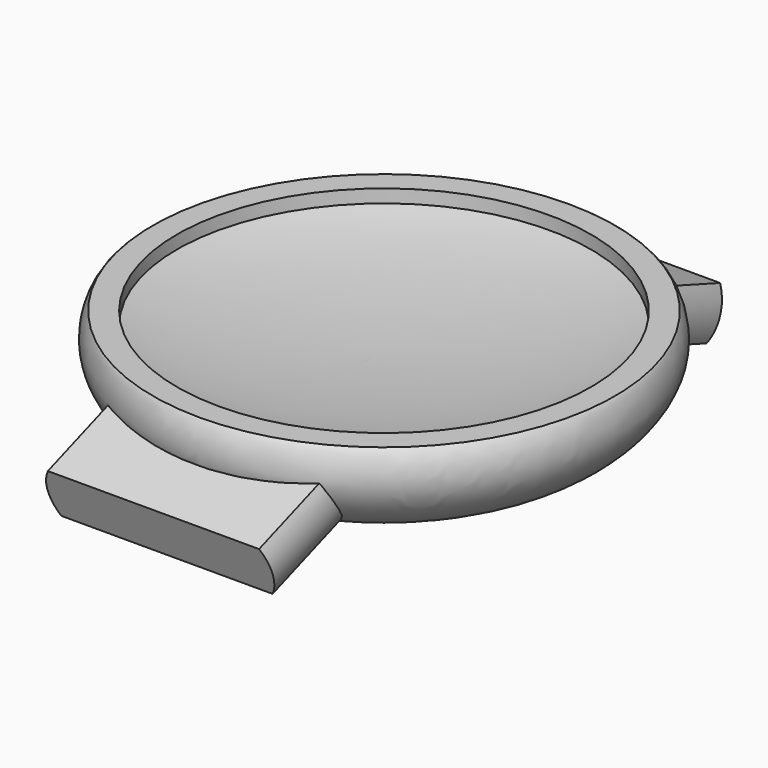
from build123d import *

# Parameters (mm, degrees)
F0_R     = 12.8
F1_DEPTH = 3.35
F9_DEPTH = 6.9


with BuildPart() as f1:
    # F0 (on Top) → F1 (new body)
    with BuildSketch(Plane.XY):
        Circle(F0_R)
    extrude(amount=-F1_DEPTH)


with BuildPart() as f3:
    # F2 (on Right) → F3 (revolve)
    with BuildSketch(Plane.YZ):
        with BuildLine():
            Line((17.5, 3), (0, 3))
            Line((0, 3), (0, -5))
            Line((0, -5), (8, -5))
            add(Edge.make_bspline(
                [(17.5, 3), (17.7214574069, 2.8375657275), (19.1802630622, -0.6381570551), (14.2400054109, -5), (8, -5)],
                knots=[0, 0, 0, 0, 0.3198546501, 1, 1, 1, 1], degree=3))
        make_face()
    revolve(axis=Axis((0, 0, -1.7860705041), (0, 0, -1)))

    # F4 (on Right) → F5 (revolve, cut)
    with BuildSketch(Plane.YZ):
        with BuildLine():
            Line((0, 3), (-15.6701598316, 3))
            Line((-15.6701598316, 3), (-15.6701598316, 2))
            add(Edge.make_bspline(
                [(-15.6701598316, 2), (-10.8706988394, 0.5381689805), (-3.1210567393, 0.2571985931), (0, 0.2571985931)],
                knots=[0, 0, 0, 0, 15.766777283, 15.766777283, 15.766777283, 15.766777283], degree=3))
            Line((0, 0.2571985931), (0, 3))
        make_face()
    revolve(axis=Axis((0, 0, -2.2828420624), (0, 0, -1)), mode=Mode.SUBTRACT)


with BuildPart() as f9:
    # F8 (on line) → F9 (new body)
    with BuildSketch(Plane(origin=(0, 13.2453333234, -4.8209070726), x_dir=(-1, 0, 0), z_dir=(0, 0.9396926208, -0.3420201433))):
        with BuildLine():
            Line((8, 6.1303021499), (0, 6.1303021499))
            Line((0, 6.1303021499), (-8, 6.1303021499))
            ThreePointArc((-8, 6.1303021499), (-8.5127570453, 4.2642791889), (-8, 2.3982562279))
            Line((-8, 2.3982562279), (0, 2.3982562279))
            Line((0, 2.3982562279), (8, 2.3982562279))
            ThreePointArc((8, 2.3982562279), (8.5127570453, 4.2642791889), (8, 6.1303021499))
        make_face()
    extrude(amount=F9_DEPTH)


with BuildPart() as f10_1:
    # F10: instance of F9
    add(f9.part.mirror(Plane.XZ))


solid = Compound([f1.part, f3.part, f9.part, f10_1.part])
